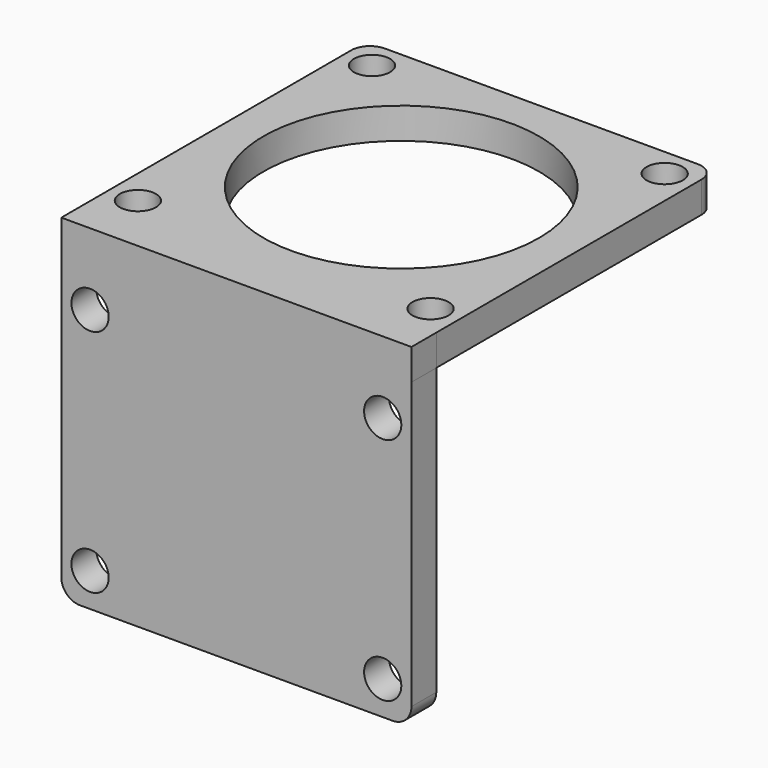
from build123d import *

# Parameters (mm, degrees)
F0_W     = 56.4
F0_H     = 56.4
F0_R     = 2.914102
F0_R_2   = 22.195946
F1_DEPTH = 5
F2_W     = 56.4
F2_H     = 49
F2_R     = 3
F3_DEPTH = 5
F4_R     = 3


with BuildPart() as f1:
    # F0 (on Top) → F1 (new body)
    with BuildSketch(Plane.XY):
        Rectangle(F0_W, F0_H)
        with Locations((-23.57, -23.57)):
            Circle(F0_R, mode=Mode.SUBTRACT)
        with Locations((23.57, -23.57)):
            Circle(F0_R, mode=Mode.SUBTRACT)
        Circle(F0_R_2, mode=Mode.SUBTRACT)
        with Locations((-23.57, 23.57)):
            Circle(F0_R, mode=Mode.SUBTRACT)
        with Locations((23.57, 23.57)):
            Circle(F0_R, mode=Mode.SUBTRACT)
        Polygon((28.203152, -28.2), (28.2, -28.2), (-28.2, -28.2), (-28.2, -33.2), (28.203152, -33.2), align=None)
    extrude(amount=F1_DEPTH)

    # F2 (on face) → F3 (join)
    with BuildSketch(Plane.XZ.offset(33.2)):
        with Locations((0, -24.5)):
            Rectangle(F2_W, F2_H)
        with Locations((-23.57, -43.577386)):
            Circle(F2_R, mode=Mode.SUBTRACT)
        with Locations((23.57, -43.577386)):
            Circle(F2_R, mode=Mode.SUBTRACT)
        with Locations((-23.57, -6.577386)):
            Circle(F2_R, mode=Mode.SUBTRACT)
        with Locations((23.57, -6.577386)):
            Circle(F2_R, mode=Mode.SUBTRACT)
    extrude(amount=-F3_DEPTH)

    # F4
    f4_edges = [f1.edges().sort_by_distance(p)[0] for p in [
        (-28.2, 28.2, 2.5),
        (28.2, 28.2, 2.5),
        (-28.2, -30.7, -49),
        (28.2, -30.7, -49),
    ]]
    fillet(f4_edges, radius=F4_R)


solid = f1.part
